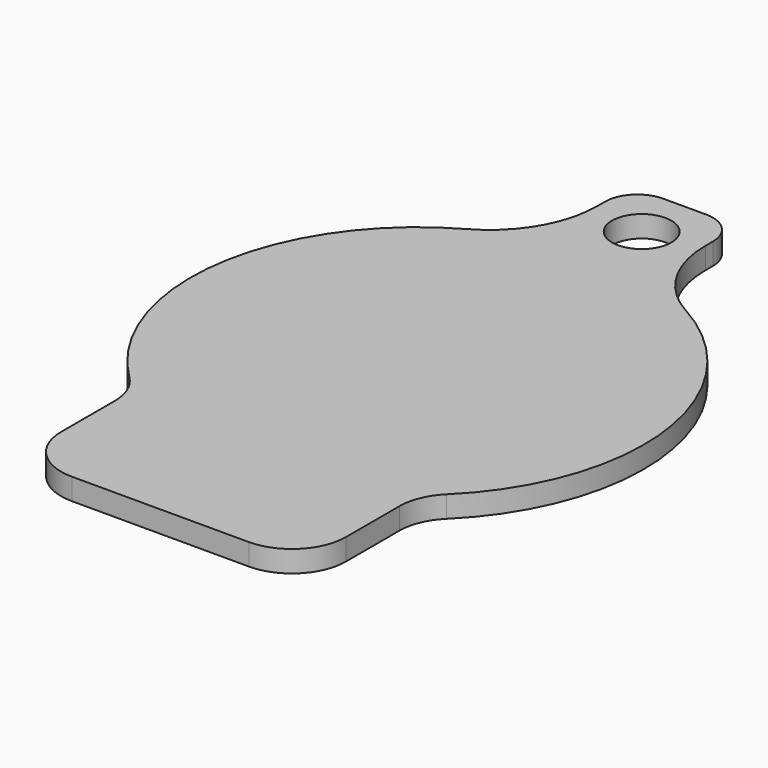
from build123d import *

# Parameters (mm, degrees)
F0_R     = 2.75
F1_DEPTH = 2


with BuildPart() as f1:
    # F0 (on Top) → F1 (new body)
    with BuildSketch(Plane.XY):
        with BuildLine():
            ThreePointArc((12.977024, -20.457966), (13.367233, -18.52152), (14.476952, -16.887322))
            ThreePointArc((14.476952, -16.887322), (20.585091, 0.939368), (9.937941, 16.487308))
            ThreePointArc((9.937941, 16.487308), (6.163083, 20.158697), (4.776651, 25.238702))
            Line((4.776651, 25.238702), (4.776651, 26.109381))
            ThreePointArc((4.776651, 26.109381), (3.897972, 28.230702), (1.776651, 29.109381))
            Line((1.776651, 29.109381), (-0.223349, 29.109381))
            Line((-0.223349, 29.109381), (-2.22335, 29.109381))
            ThreePointArc((-2.22335, 29.109381), (-4.34467, 28.230702), (-5.22335, 26.109381))
            Line((-5.22335, 26.109381), (-5.22335, 25.238702))
            ThreePointArc((-5.22335, 25.238702), (-6.609782, 20.158697), (-10.38464, 16.487308))
            ThreePointArc((-10.38464, 16.487308), (-21.031789, 0.939368), (-14.923651, -16.887322))
            ThreePointArc((-14.923651, -16.887322), (-13.813931, -18.52152), (-13.423723, -20.457966))
            Line((-13.423723, -20.457966), (-13.423723, -26.667449))
            ThreePointArc((-13.423723, -26.667449), (-11.959257, -30.202983), (-8.423723, -31.667449))
            Line((-8.423723, -31.667449), (-0.223349, -31.667449))
            Line((-0.223349, -31.667449), (7.977024, -31.667449))
            ThreePointArc((7.977024, -31.667449), (11.512558, -30.202983), (12.977024, -26.667449))
            Line((12.977024, -26.667449), (12.977024, -20.457966))
        make_face()
        with Locations((-0.223349, 24.109381)):
            Circle(F0_R, mode=Mode.SUBTRACT)
    extrude(amount=F1_DEPTH)


solid = f1.part
